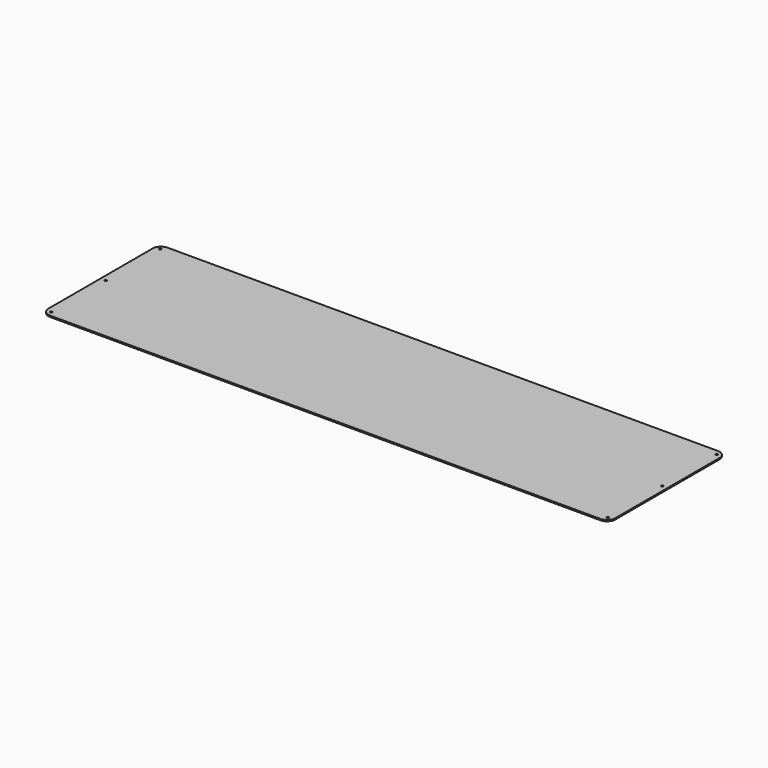
from build123d import *

# Parameters (mm, degrees)
F0_W     = 1371.6
F0_H     = 355.6
F0_R     = 2.54
F1_DEPTH = 3.175
F2_R     = 20.32


with BuildPart() as f1:
    # F0 (on Top) → F1 (new body)
    with BuildSketch(Plane.XY):
        with Locations((685.8, 177.8)):
            Rectangle(F0_W, F0_H)
        with Locations((12.7, 12.7)):
            Circle(F0_R, mode=Mode.SUBTRACT)
        with Locations((1358.9, 12.7)):
            Circle(F0_R, mode=Mode.SUBTRACT)
        with Locations((12.7, 177.8)):
            Circle(F0_R, mode=Mode.SUBTRACT)
        with Locations((12.7, 342.9)):
            Circle(F0_R, mode=Mode.SUBTRACT)
        with Locations((1358.9, 177.8)):
            Circle(F0_R, mode=Mode.SUBTRACT)
        with Locations((1358.9, 342.9)):
            Circle(F0_R, mode=Mode.SUBTRACT)
    extrude(amount=F1_DEPTH)

    # F2
    f2_edges = [f1.edges().sort_by_distance(p)[0] for p in [
        (0, 355.6, 1.5875),
        (0, 0, 1.5875),
        (1371.6, 0, 1.5875),
        (1371.6, 355.6, 1.5875),
    ]]
    fillet(f2_edges, radius=F2_R)


solid = f1.part
